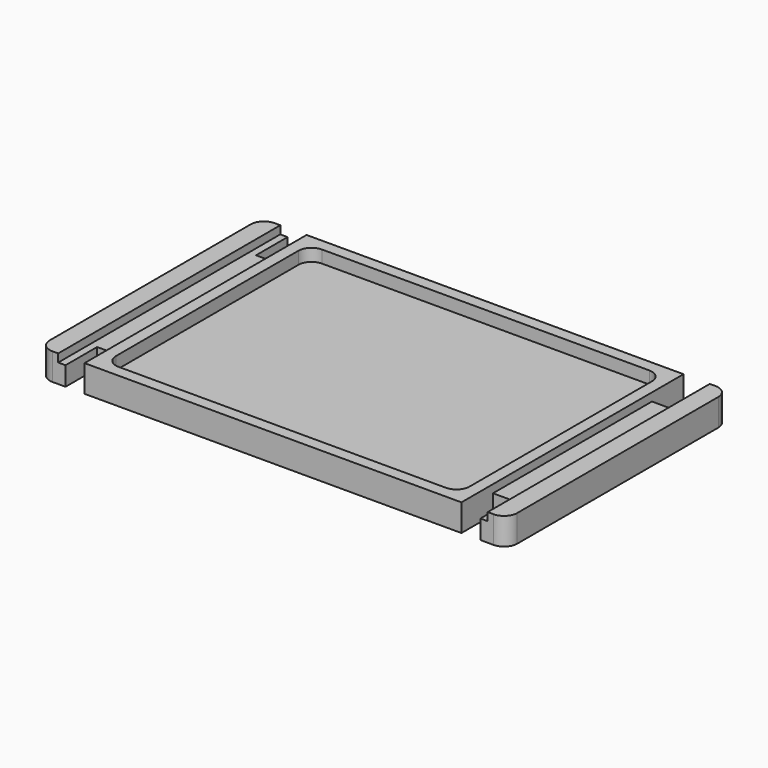
from build123d import *

# Parameters (mm, degrees)
PAD003_DEPTH    = 18.5
SKETCH005_W     = 18
SKETCH005_H     = 190
POCKET_DEPTH    = 5.5
POCKET001_DEPTH = 8.5


with BuildPart() as part:
    # Clone2D002 → Pad003 (new body)
    with BuildSketch(Plane.XY):
        with BuildLine():
            Line((-151, 95), (-142, 95))
            Line((-142, 95), (-142, 68))
            Line((-142, 68), (-129, 68))
            Line((-129, 68), (-129, 95))
            Line((-129, 95), (129, 95))
            Line((129, 95), (129, 68))
            Line((129, 68), (142, 68))
            Line((142, 68), (142, 95))
            Line((142, 95), (151, 95))
            ThreePointArc((151, 95), (157.363961, 92.363961), (160, 86))
            Line((160, 86), (160, -86))
            ThreePointArc((160, -86), (157.363961, -92.363961), (151, -95))
            Line((151, -95), (142, -95))
            Line((142, -95), (142, -68))
            Line((142, -68), (129, -68))
            Line((129, -68), (129, -95))
            Line((129, -95), (-129, -95))
            Line((-129, -95), (-129, -68))
            Line((-129, -68), (-142, -68))
            Line((-142, -68), (-142, -95))
            Line((-142, -95), (-151, -95))
            ThreePointArc((-151, -95), (-157.363961, -92.363961), (-160, -86))
            Line((-160, -86), (-160, 86))
            ThreePointArc((-160, 86), (-157.363961, 92.363961), (-151, 95))
        make_face()
    extrude(amount=PAD003_DEPTH)

    # Sketch005 (on Face26 of Pad003) → Pocket (cut)
    with BuildSketch(Plane.XY.offset(18.5)):
        with Locations((-138, 0)):
            Rectangle(SKETCH005_W, SKETCH005_H)
    pocket = extrude(amount=-POCKET_DEPTH, mode=Mode.SUBTRACT)

    # Mirrored: Pocket across Sketch005 V_Axis
    add(pocket.mirror(Plane(origin=(0, 0, 18.5), x_dir=(0, 0, 1), z_dir=(1, 0, 0))), mode=Mode.SUBTRACT)

    # Sketch006 (on Face31 of Pocket) → Pocket001 (cut)
    with BuildSketch(Plane.XY.offset(18.5)):
        with BuildLine():
            Line((-112, 87), (112, 87))
            ThreePointArc((121, 78), (118.363961, 84.363961), (112, 87))
            Line((121, 78), (121, -78))
            ThreePointArc((112, -87), (118.363961, -84.363961), (121, -78))
            Line((112, -87), (-112, -87))
            ThreePointArc((-121, -78), (-118.363961, -84.363961), (-112, -87))
            Line((-121, -78), (-121, 78))
            ThreePointArc((-112, 87), (-118.363961, 84.363961), (-121, 78))
        make_face()
    pocket001 = extrude(amount=-POCKET001_DEPTH, mode=Mode.SUBTRACT)

    # Mirrored001: Pocket001 across Sketch006 V_Axis
    add(pocket001.mirror(Plane(origin=(0, 0, 18.5), x_dir=(0, 0, 1), z_dir=(1, 0, 0))), mode=Mode.SUBTRACT)


solid = part.part
